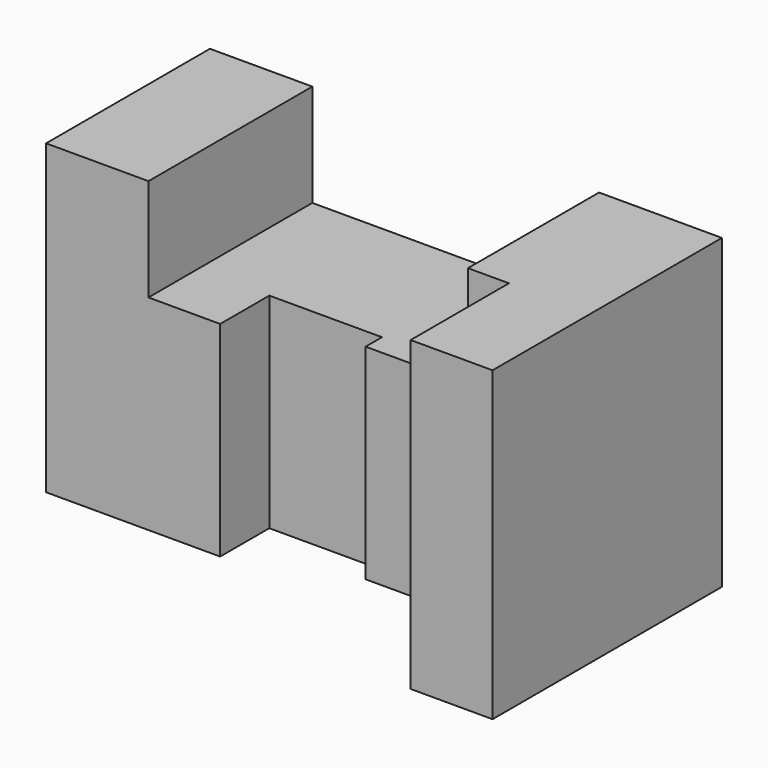
from build123d import *

# Parameters (mm, degrees)
F0_W     = 125
F0_H     = 75
F1_DEPTH = 70
F2_W     = 70
F2_H     = 25
F3_DEPTH = 70.001
F5_DEPTH = 75.001


with BuildPart() as f1:
    # F0 (on Front) → F1 (new body)
    with BuildSketch(Plane.XZ):
        with Locations((62.5, 37.5)):
            Rectangle(F0_W, F0_H)
    extrude(amount=F1_DEPTH)

    # F2 (on face) → F3 (cut, through all)
    with BuildSketch(Plane.XZ.offset(70)):
        with Locations((60, 62.5)):
            Rectangle(F2_W, F2_H)
    extrude(amount=-F3_DEPTH, mode=Mode.SUBTRACT)

    # F4 (on face) → F5 (cut, through all)
    with BuildSketch(Plane.XY.offset(75)):
        Polygon((0, -50), (0, -70), (105, -70), (105, -40), (70, -40), (70, -35), (42.5, -35), (42.5, -50), align=None)
    extrude(amount=-F5_DEPTH, mode=Mode.SUBTRACT)


solid = f1.part
